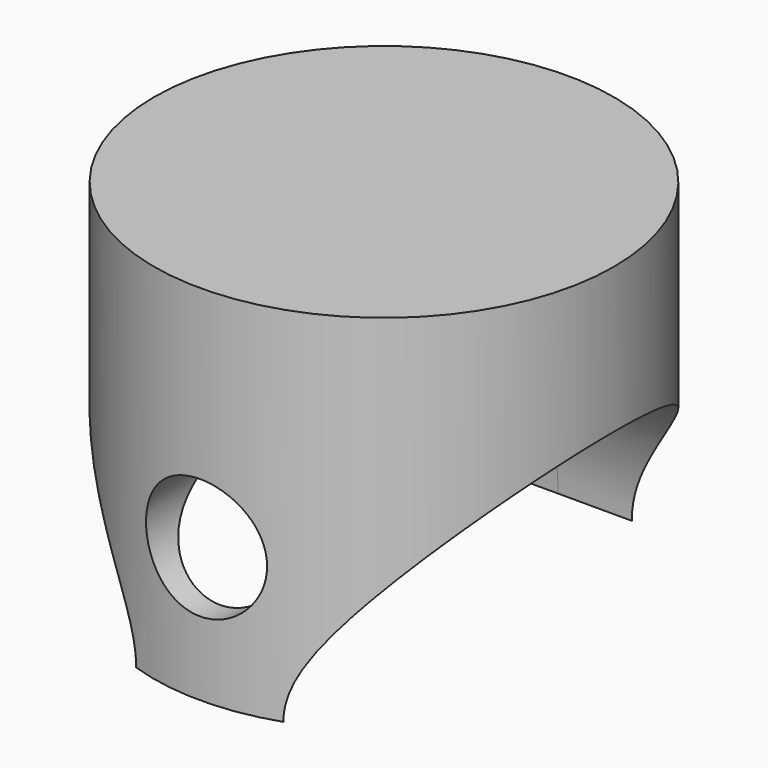
from build123d import *

# Parameters (mm, degrees)
F0_R          = 24.13
F1_DEPTH      = 38.1
F2_R          = 22.86
F3_DEPTH      = 25.4
F3_DEPTH_BACK = 25.4
F5_R          = 6.35
F6_DEPTH      = 25.4
F6_DEPTH_BACK = 25.4


with BuildPart() as f1:
    # F0 (on Top) → F1 (new body)
    with BuildSketch(Plane.XY):
        Circle(F0_R)
    extrude(amount=F1_DEPTH)

    # F2 (on Right) → F3 (cut, two sides)
    with BuildSketch(Plane.YZ) as f3_sk:
        Circle(F2_R)
    extrude(amount=-F3_DEPTH, mode=Mode.SUBTRACT)
    extrude(f3_sk.sketch, amount=F3_DEPTH_BACK, mode=Mode.SUBTRACT)

    # F5 (on face) → F6 (cut, two sides)
    with BuildSketch(Plane.XZ) as f6_sk:
        with Locations((0, 14.1012268141)):
            Circle(F5_R)
    extrude(amount=-F6_DEPTH, mode=Mode.SUBTRACT)
    extrude(f6_sk.sketch, amount=F6_DEPTH_BACK, mode=Mode.SUBTRACT)


solid = f1.part
